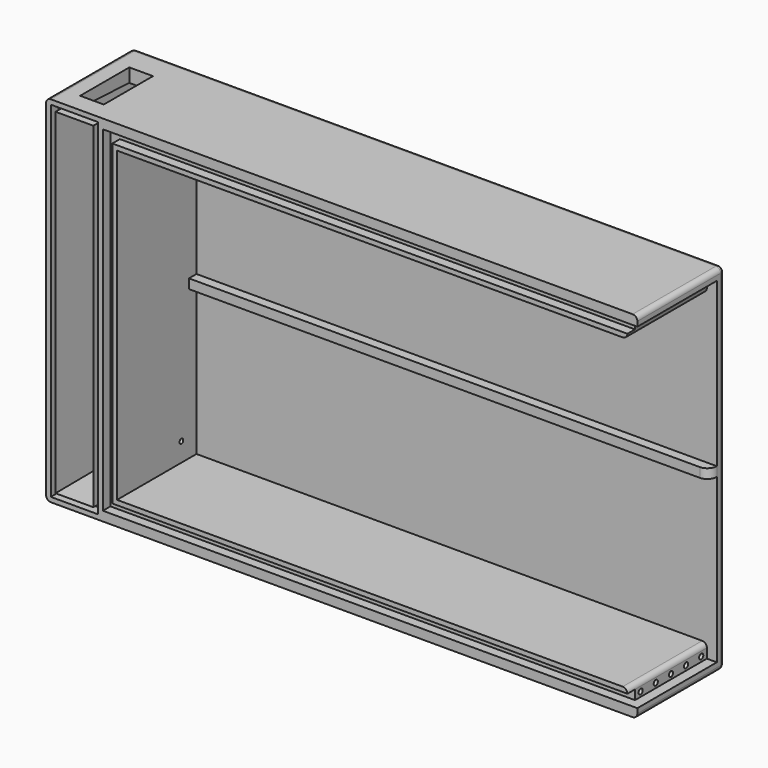
from build123d import *

# Parameters (mm, degrees)
F0_W      = 125
F0_H      = 75
F1_DEPTH  = 23
F2_W      = 108
F2_H      = 65
F3_DEPTH  = 21
F4_W      = 8
F4_H      = 71
F5_DEPTH  = 21
F5_TAPER  = 3
F6_W      = 21
F6_H      = 71
F7_DEPTH  = 2.1
F8_W      = 108.9
F8_H      = 2
F9_DEPTH  = 2
F10_W     = 95
F10_H     = 2
F10_W_2   = 15
F11_DEPTH = 2
F12_R     = 2
F13_R     = 1
F14_R     = 1
F15_W     = 8
F15_H     = 1
F16_DEPTH = 2
F17_R     = 0.55
F18_DEPTH = 10.1
F19_R     = 0.55
F20_DEPTH = 10.1
F21_R     = 0.5
F22_DEPTH = 8
F23_W     = 5
F23_H     = 13
F24_DEPTH = 3


with BuildPart() as f1:
    # F0 (on Front) → F1 (new body)
    with BuildSketch(Plane.XZ):
        Rectangle(F0_W, F0_H)
    extrude(amount=F1_DEPTH)

    # F2 (on face) → F3 (cut)
    with BuildSketch(Plane.XZ.offset(23)):
        with Locations((6.5, 0)):
            Rectangle(F2_W, F2_H)
    extrude(amount=-F3_DEPTH, mode=Mode.SUBTRACT)

    # F4 (on face) → F5 (cut)
    with BuildSketch(Plane.XZ.offset(23)):
        with Locations((-56.5, 0)):
            Rectangle(F4_W, F4_H)
    extrude(amount=-F5_DEPTH, taper=F5_TAPER, mode=Mode.SUBTRACT)

    # F6 (on face) → F7 (cut)
    with BuildSketch(Plane.YZ.offset(62.5)):
        with Locations((-12.5, 0)):
            Rectangle(F6_W, F6_H)
    extrude(amount=-F7_DEPTH, mode=Mode.SUBTRACT)

    # F8 (on face) → F9 (cut)
    with BuildSketch(Plane.XZ.offset(23)):
        Polygon((-48.5, 33.5), (-50.5, 33.5), (-50.5, -35.5), (-48.5, -35.5), (-48.5, -33.5), align=None)
        Polygon((60.4, 33.5), (60.4, 35.5), (-50.5, 35.5), (-50.5, 33.5), (-48.5, 33.5), align=None)
        with Locations((5.95, -34.5)):
            Rectangle(F8_W, F8_H)
    extrude(amount=-F9_DEPTH, mode=Mode.SUBTRACT)

    # F10 (on face) → F11 (join)
    with BuildSketch(Plane.XZ.offset(2)):
        Rectangle(F10_W, F10_H)
        with Locations((55, 0)):
            Rectangle(F10_W_2, F10_H)
        Rectangle(F10_W, F10_H)
    extrude(amount=F11_DEPTH)

    # F12
    f12_edges = [f1.edges().sort_by_distance(p)[0] for p in [
        (62.5, -4, 0),
    ]]
    fillet(f12_edges, radius=F12_R)

    # F13
    f13_edges = [f1.edges().sort_by_distance(p)[0] for p in [
        (60.4, -12.5, 32.5),
        (60.4, -12.5, -32.5),
    ]]
    fillet(f13_edges, radius=F13_R)

    # F14
    f14_edges = [f1.edges().sort_by_distance(p)[0] for p in [
        (62.5, -11.5, -37.5),
        (62.5, 0, 0),
        (0, 0, -37.5),
        (62.5, -11.5, 37.5),
        (0, 0, 37.5),
        (-62.5, -11.5, 37.5),
        (-62.5, 0, 0),
        (-62.5, -11.5, -37.5),
    ]]
    fillet(f14_edges, radius=F14_R)

    # F15 (on face) → F16 (cut)
    with BuildSketch(Plane.XZ.offset(23)):
        with Locations((-56.5, 36)):
            Rectangle(F15_W, F15_H)
        Polygon((-60.5, -35.5), (-60.5, 35.5), (-60.5, 36.5), (-61.5, 36.5), (-61.5, -36.5), (-60.5, -36.5), align=None)
        Polygon((-52.5, 36.5), (-52.5, 35.5), (-52.5, -35.5), (-52.5, -36.5), (-51.5, -36.5), (-51.5, 36.5), align=None)
        with Locations((-56.5, -36)):
            Rectangle(F15_W, F15_H)
    extrude(amount=-F16_DEPTH, mode=Mode.SUBTRACT)

    # F17 (on face) → F18 (cut)
    with BuildSketch(Plane.YZ.offset(60.4)):
        with Locations((-19.5, -34.5)):
            Circle(F17_R)
        with Locations((-15.5, -34.5)):
            Circle(F17_R)
        with Locations((-11.5, -34.5)):
            Circle(F17_R)
        with Locations((-3.5, -34.5)):
            Circle(F17_R)
        with Locations((-7.5, -34.5)):
            Circle(F17_R)
    extrude(amount=-F18_DEPTH, mode=Mode.SUBTRACT)

    # F19 (on face) → F20 (cut)
    with BuildSketch(Plane.YZ.offset(60.4)):
        with Locations((-19.5, 34.5)):
            Circle(F19_R)
        with Locations((-15.5, 34.5)):
            Circle(F19_R)
        with Locations((-11.5, 34.5)):
            Circle(F19_R)
        with Locations((-7.5, 34.5)):
            Circle(F19_R)
        with Locations((-3.5, 34.5)):
            Circle(F19_R)
    extrude(amount=-F20_DEPTH, mode=Mode.SUBTRACT)

    # F21 (on face) → F22 (cut)
    with BuildSketch(Plane.YZ.offset(-47.5)):
        with Locations((-6, -28.5)):
            Circle(F21_R)
        with Locations((-6, 28.5)):
            Circle(F21_R)
    extrude(amount=-F22_DEPTH, mode=Mode.SUBTRACT)

    # F23 (on face) → F24 (cut)
    with BuildSketch(Plane.XY.offset(37.5)):
        with Locations((-56, -12.5)):
            Rectangle(F23_W, F23_H)
    extrude(amount=-F24_DEPTH, mode=Mode.SUBTRACT)


solid = f1.part
